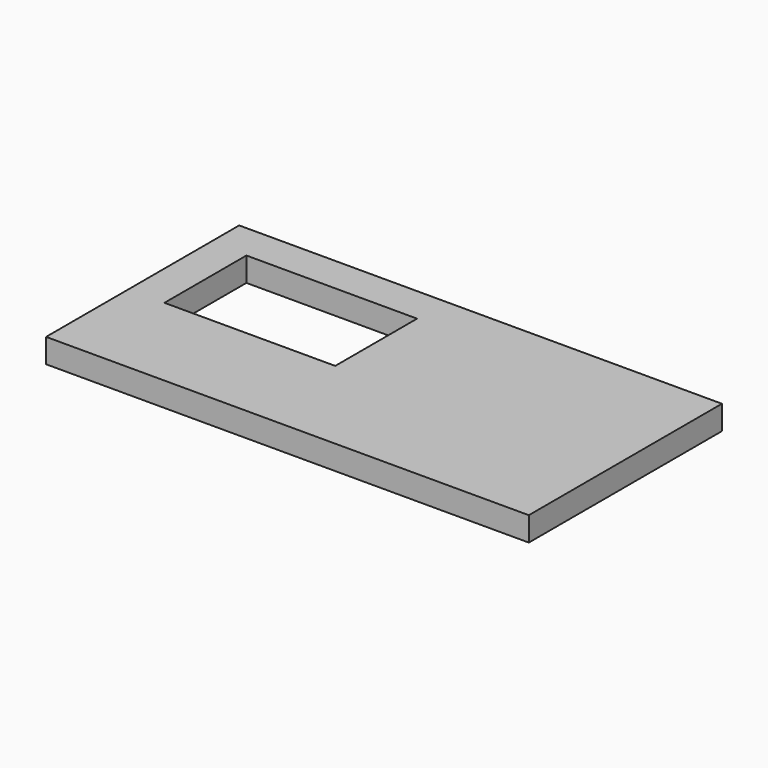
from build123d import *

# Parameters (mm, degrees)
F0_W     = 200
F0_H     = 100
F1_DEPTH = 10
F3_DEPTH = 25


with BuildPart() as f1:
    # F0 (on Top) → F1 (new body)
    with BuildSketch(Plane.XY):
        with Locations((8.938173, -34.933871)):
            Rectangle(F0_W, F0_H)
    extrude(amount=F1_DEPTH)

    # F2 (on face) → F3 (cut)
    with BuildSketch(Plane.XY.offset(10)):
        Polygon((-5.306835, -42.385153), (-5.306835, 0), (-76.061827, 0.066129), (-76.061827, -42.385153), align=None)
    extrude(amount=-F3_DEPTH, mode=Mode.SUBTRACT)


solid = f1.part
